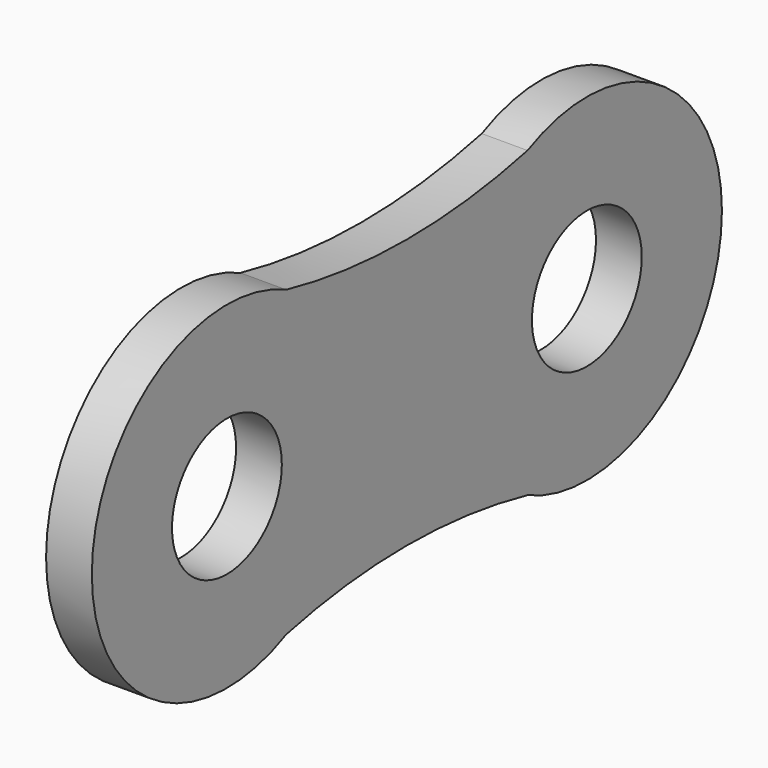
from build123d import *

# Parameters (mm, degrees)
F0_R     = 0.9144
F1_DEPTH = 0.6096


with BuildPart() as f1:
    # F0 (on Right) → F1 (new body)
    with BuildSketch(Plane.YZ):
        with BuildLine():
            ThreePointArc((2.009368, 2.021556), (0, 1.794238), (-2.009368, 2.021556))
            ThreePointArc((-2.009368, 2.021556), (-5.2472, 0), (-2.009368, -2.021556))
            ThreePointArc((-2.009368, -2.021556), (0, -1.794238), (2.009368, -2.021556))
            ThreePointArc((2.009368, -2.021556), (5.2472, 0), (2.009368, 2.021556))
        make_face()
        with Locations((-2.9972, 0)):
            Circle(F0_R, mode=Mode.SUBTRACT)
        with Locations((2.9972, 0)):
            Circle(F0_R, mode=Mode.SUBTRACT)
    extrude(amount=F1_DEPTH)


solid = f1.part
